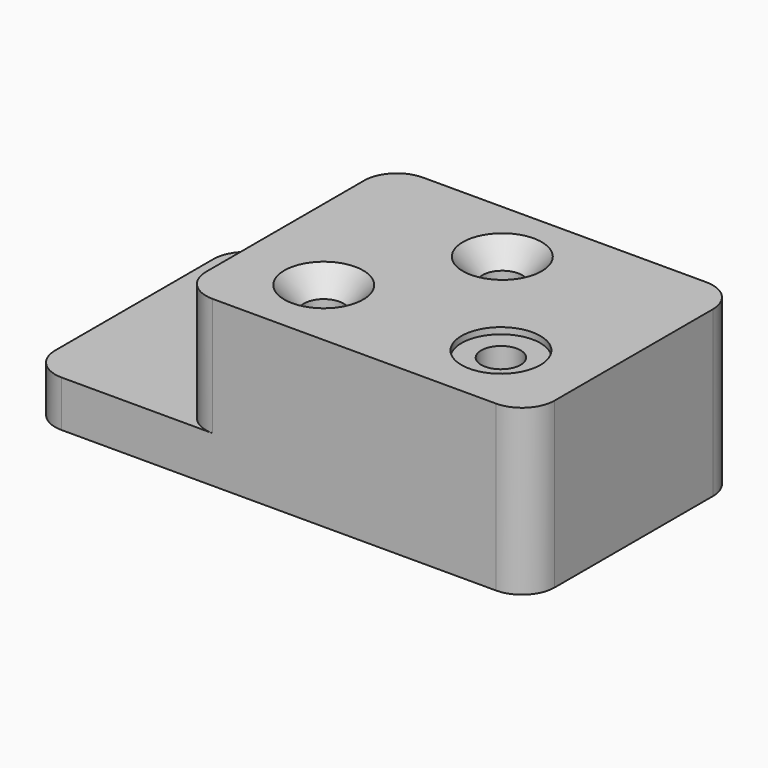
from build123d import *

# Parameters (mm, degrees)
F0_W                 = 168.402
F0_H                 = 127
F1_DEPTH             = 79.502
F0_W_2               = 72.898
F2_DEPTH             = 22.352
F4_D                 = 19.05
F4_CSINK_D           = 38.1
F4_CSINK_ANGLE       = 82
F6_D                 = 19.05
F6_CBORE_D           = 38.1
F6_CBORE_DEPTH       = 3.048
F6_ON_F5_D           = 19.05
F6_ON_F5_CBORE_D     = 38.1
F6_ON_F5_CBORE_DEPTH = 3.048
F7_R                 = 15.748
F8_R                 = 15.748


with BuildPart() as f1:
    # F0 (on Top) → F1 (new body)
    with BuildSketch(Plane.XY):
        with Locations((157.099, 63.5)):
            Rectangle(F0_W, F0_H)
    extrude(amount=F1_DEPTH)

    # F0 (on Top) → F2 (join)
    with BuildSketch(Plane.XY):
        with Locations((36.449, 63.5)):
            Rectangle(F0_W_2, F0_H)
    extrude(amount=F2_DEPTH)

    # F4 (through all)
    with Locations(Plane.XY.offset(79.502)):
        with Locations((152.4, 95.25), (114.3, 35.052)):
            CounterSinkHole(F4_D / 2, F4_CSINK_D / 2, counter_sink_angle=F4_CSINK_ANGLE)

    # F6 (through all)
    with Locations(Plane.XY.offset(79.502)):
        with Locations((199.898, 35.052)):
            CounterBoreHole(F6_D / 2, F6_CBORE_D / 2, F6_CBORE_DEPTH)

    # F6 on F5 (through all)
    with Locations(Plane.XY.offset(22.352)):
        with Locations((35.052, 95.25)):
            CounterBoreHole(F6_ON_F5_D / 2, F6_ON_F5_CBORE_D / 2, F6_ON_F5_CBORE_DEPTH)

    # F7
    f7_edges = [f1.edges().sort_by_distance(p)[0] for p in [
        (0, 0, 11.176),
        (0, 127, 11.176),
    ]]
    fillet(f7_edges, radius=F7_R)

    # F8
    f8_edges = [f1.edges().sort_by_distance(p)[0] for p in [
        (72.898, 127, 50.927),
        (72.898, 0, 50.927),
        (241.3, 0, 39.751),
        (241.3, 127, 39.751),
    ]]
    fillet(f8_edges, radius=F8_R)


solid = f1.part
